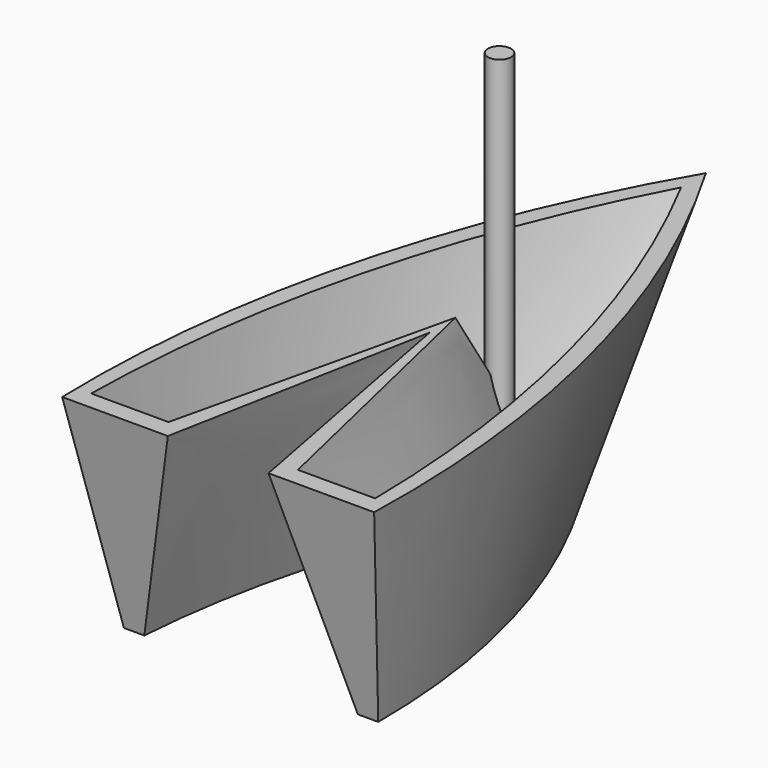
from build123d import *

# Parameters (mm, degrees)
F9_R      = 2.740867
F10_DEPTH = 75
F11_DEPTH = 2.5


with BuildPart() as f3:
    # F2 (on offset) → F3 section 0
    with BuildSketch(Plane.XY.offset(-50)):
        with BuildLine():
            ThreePointArc((30.178057, -85.267261), (22.527556, -33.46393), (0, 13.807885))
            ThreePointArc((0, 13.807885), (-22.527556, -33.46393), (-30.178057, -85.267261))
            Line((-30.178057, -85.267261), (-25.33818, -85.267261))
            ThreePointArc((-25.33818, -85.267261), (-17.332774, -41.247761), (0, 0))
            ThreePointArc((0, 0), (17.332774, -41.247761), (25.33818, -85.267261))
            Line((25.33818, -85.267261), (30.178057, -85.267261))
        make_face()
    # F0 (on Top) → F3 section 1
    with BuildSketch(Plane.XY):
        with BuildLine():
            Line((11.943851, -95.035806), (37.024528, -95.035806))
            ThreePointArc((37.024528, -95.035806), (28.659989, -20.101697), (0, 49.638472))
            ThreePointArc((0, 49.638472), (-28.659989, -20.101697), (-37.024528, -95.035806))
            Line((-37.024528, -95.035806), (-11.943851, -95.035806))
            Line((-11.943851, -95.035806), (0, -32.345828))
            Line((0, -32.345828), (11.943851, -95.035806))
        make_face()
    loft()

    # F6 (on offset) → F7 section 0
    with BuildSketch(Plane.XY.offset(-40)):
        with BuildLine():
            ThreePointArc((28.793208, -83.320476), (21.105687, -34.645532), (0, 9.884212))
            ThreePointArc((0, 9.884212), (-21.105687, -34.645532), (-28.793208, -83.320476))
            Line((-28.793208, -83.320476), (-25.807247, -82.68062))
            ThreePointArc((-25.807247, -82.68062), (-18.222281, -39.094475), (0, 1.219694))
            ThreePointArc((0, 1.219694), (18.222281, -39.094475), (25.807247, -82.68062))
            Line((25.807247, -82.68062), (28.793208, -83.320476))
        make_face()
    # F4 (on Top) → F7 section 1
    with BuildSketch(Plane.XY):
        with BuildLine():
            Line((15.356379, -90.572096), (33.698723, -90.572096))
            ThreePointArc((33.698723, -90.572096), (24.74767, -22.13133), (0, 42.303231))
            ThreePointArc((0, 42.303231), (-24.74767, -22.13133), (-33.698723, -90.572096))
            Line((-33.698723, -90.572096), (-15.356379, -90.572096))
            Line((-15.356379, -90.572096), (0, -24.667639))
            Line((0, -24.667639), (15.356379, -90.572096))
        make_face()
    loft(mode=Mode.SUBTRACT)

    # F9 (on offset) → F10 (join)
    with BuildSketch(Plane.XY.offset(-25)):
        with Locations((0, -11.576544)):
            Circle(F9_R)
    extrude(amount=F10_DEPTH)

    # F9 (on offset) → F11 (join)
    with BuildSketch(Plane.XY.offset(-25)):
        with Locations((0, -11.576544)):
            Circle(F9_R)
    extrude(amount=-F11_DEPTH)


solid = f3.part
